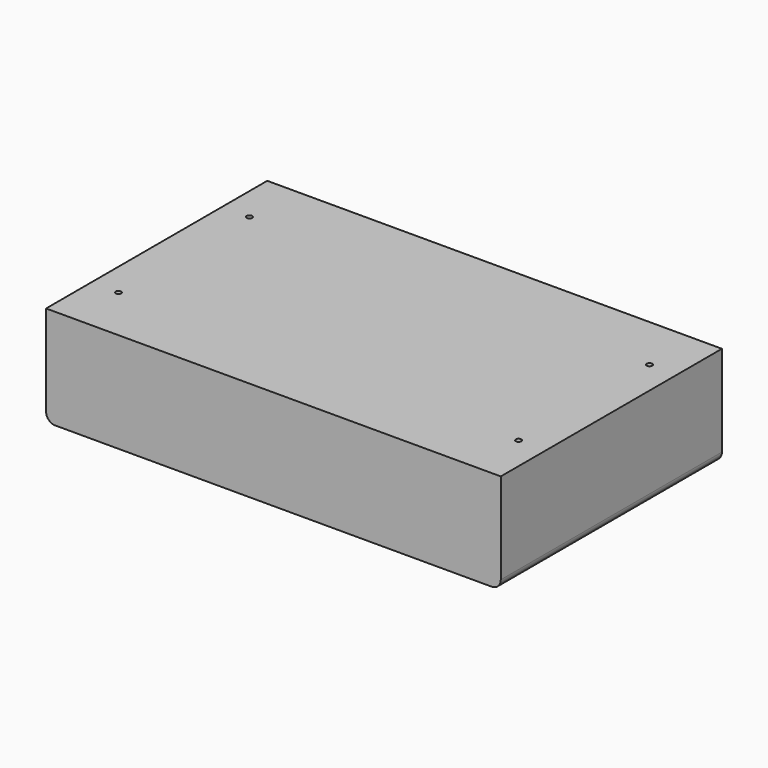
from build123d import *

# Parameters (mm, degrees)
F0_W     = 250
F0_H     = 152
F1_DEPTH = 55
F2_R     = 1.5
F3_DEPTH = 5
F4_R     = 5


with BuildPart() as f1:
    # F0 (on Top) → F1 (new body)
    with BuildSketch(Plane.XY):
        Rectangle(F0_W, F0_H)
    extrude(amount=F1_DEPTH)

    # F2 (on face) → F3 (cut)
    with BuildSketch(Plane.XY.offset(55)):
        with Locations((-110, 45)):
            Circle(F2_R)
        with Locations((110, 45)):
            Circle(F2_R)
        with Locations((-110, -45)):
            Circle(F2_R)
        with Locations((110, -45)):
            Circle(F2_R)
    extrude(amount=-F3_DEPTH, mode=Mode.SUBTRACT)

    # F4
    f4_edges = [f1.edges().sort_by_distance(p)[0] for p in [
        (-125, 0, 0),
        (125, 0, 0),
    ]]
    fillet(f4_edges, radius=F4_R)


solid = f1.part
